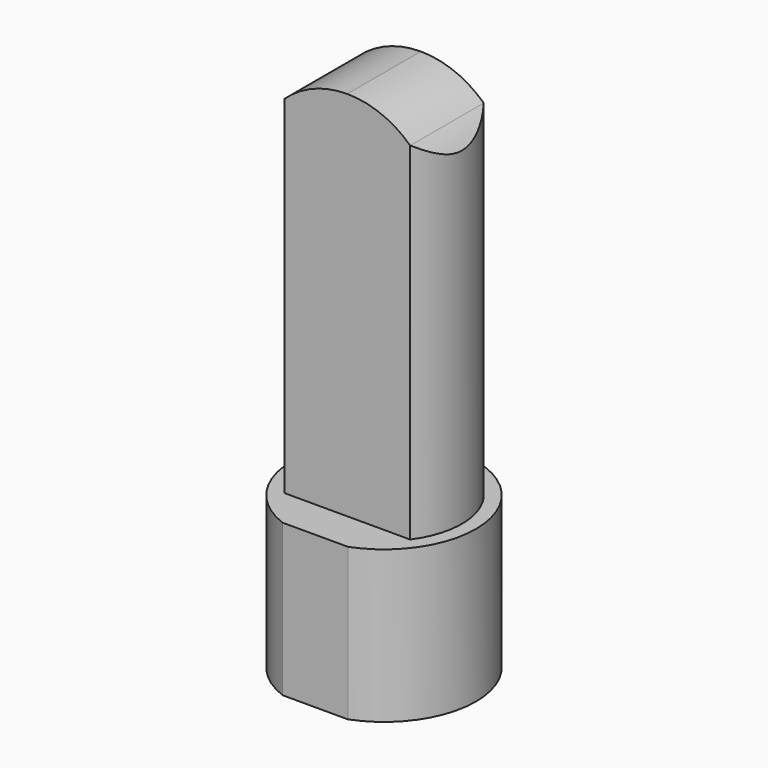
from build123d import *

# Parameters (mm, degrees)
F1_DEPTH  = 38
F2_R      = 20.15
F3_DEPTH  = 26
F5_DEPTH  = 93
F7_DEPTH  = 10.001
F8_DEPTH  = 33.001
F9_R      = 20.15
F10_DEPTH = 26


with BuildPart() as f1:
    # F0 (on Top) → F1 (new body)
    with BuildSketch(Plane.XY):
        with BuildLine():
            Line((8.170067, 21.5), (-8.170067, 21.5))
            ThreePointArc((-8.170067, 21.5), (-23, 0), (-8.170067, -21.5))
            Line((-8.170067, -21.5), (8.170067, -21.5))
            ThreePointArc((8.170067, -21.5), (23, 0), (8.170067, 21.5))
        make_face()
    extrude(amount=F1_DEPTH)

    # F2 (on face) → F3 (cut)
    with BuildSketch(Plane(origin=(0, 0, 0), x_dir=(1, 0, 0), z_dir=(0, 0, -1))):
        Circle(F2_R)
    extrude(amount=F3_DEPTH, mode=Mode.SUBTRACT)

    # F4 (on face) → F5 (join)
    with BuildSketch(Plane.XY.offset(38)):
        with BuildLine():
            Line((15.748016, 11.5), (-15.748016, 11.5))
            ThreePointArc((-15.748016, 11.5), (-19.5, 0), (-15.748016, -11.5))
            Line((-15.748016, -11.5), (15.748016, -11.5))
            ThreePointArc((15.748016, -11.5), (19.5, 0), (15.748016, 11.5))
        make_face()
    extrude(amount=F5_DEPTH)

    # F6 (on face) → F7 (cut, through all)
    with BuildSketch(Plane.XZ.offset(11.5)):
        with BuildLine():
            ThreePointArc((15.748016, 124.763055), (20.379191, 118.662484), (22.750367, 111.379471))
            Line((22.750367, 111.379471), (46.255957, 144.918099))
            Line((46.255957, 144.918099), (-20.857954, 152.163342))
            Line((-20.857954, 152.163342), (-47.932316, 122.801021))
            Line((-47.932316, 122.801021), (-22.973727, 109.099036))
            ThreePointArc((-22.973727, 109.099036), (-20.885011, 117.634122), (-15.748016, 124.763055))
            Line((-15.748016, 124.763055), (-15.748016, 131))
            Line((-15.748016, 131), (0, 131))
            Line((0, 131), (15.748016, 131))
            Line((15.748016, 131), (15.748016, 124.763055))
        make_face()
        with BuildLine():
            ThreePointArc((0, 131), (8.469054, 129.383992), (15.748016, 124.763055))
            Line((15.748016, 124.763055), (15.748016, 131))
            Line((15.748016, 131), (0, 131))
        make_face()
        with BuildLine():
            ThreePointArc((-15.748016, 124.763055), (-8.469054, 129.383992), (0, 131))
            Line((0, 131), (-15.748016, 131))
            Line((-15.748016, 131), (-15.748016, 124.763055))
        make_face()
    extrude(amount=F7_DEPTH, mode=Mode.SUBTRACT)

    # F6 (on face) → F8 (cut, through all)
    with BuildSketch(Plane.XZ.offset(11.5)):
        with BuildLine():
            ThreePointArc((15.748016, 124.763055), (20.379191, 118.662484), (22.750367, 111.379471))
            Line((22.750367, 111.379471), (46.255957, 144.918099))
            Line((46.255957, 144.918099), (-20.857954, 152.163342))
            Line((-20.857954, 152.163342), (-47.932316, 122.801021))
            Line((-47.932316, 122.801021), (-22.973727, 109.099036))
            ThreePointArc((-22.973727, 109.099036), (-20.885011, 117.634122), (-15.748016, 124.763055))
            Line((-15.748016, 124.763055), (-15.748016, 131))
            Line((-15.748016, 131), (0, 131))
            Line((0, 131), (15.748016, 131))
            Line((15.748016, 131), (15.748016, 124.763055))
        make_face()
        with BuildLine():
            ThreePointArc((0, 131), (8.469054, 129.383992), (15.748016, 124.763055))
            Line((15.748016, 124.763055), (15.748016, 131))
            Line((15.748016, 131), (0, 131))
        make_face()
        with BuildLine():
            ThreePointArc((-15.748016, 124.763055), (-8.469054, 129.383992), (0, 131))
            Line((0, 131), (-15.748016, 131))
            Line((-15.748016, 131), (-15.748016, 124.763055))
        make_face()
    extrude(amount=-F8_DEPTH, mode=Mode.SUBTRACT)

    # F9 (on face) → F10 (cut)
    with BuildSketch(Plane(origin=(0, 0, 0), x_dir=(1, 0, 0), z_dir=(0, 0, -1))):
        Circle(F9_R)
    extrude(amount=-F10_DEPTH, mode=Mode.SUBTRACT)


solid = f1.part
